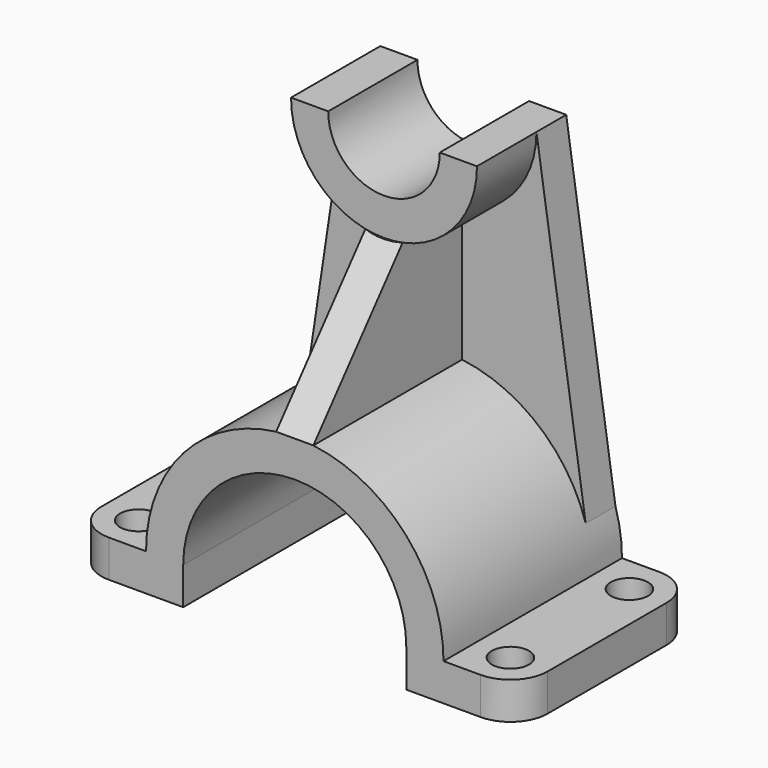
from build123d import *

# Parameters (mm, degrees)
F1_DEPTH  = 60
F3_DEPTH  = 10
F4_DEPTH  = 30
F6_DEPTH  = 50
F8_DEPTH  = 25
F9_R      = 5
F10_DEPTH = 25
F11_R     = 10


with BuildPart() as f1:
    # F0 (on Front) → F1 (new body)
    with BuildSketch(Plane.XZ):
        with BuildLine():
            Line((-34.3805874884, -42.3699883783), (-54.3805874884, -42.3699883783))
            Line((-54.3805874884, -42.3699883783), (-54.3805874884, -52.3699883783))
            Line((-54.3805874884, -52.3699883783), (-24.3805874884, -52.3699883783))
            Line((-24.3805874884, -52.3699883783), (-24.3805874884, -42.3699883783))
            ThreePointArc((-24.3805874884, -42.3699883783), (5.6194125116, -12.3699883783), (35.6194125116, -42.3699883783))
            Line((35.6194125116, -42.3699883783), (35.6194125116, -52.3699883783))
            Line((35.6194125116, -52.3699883783), (65.6194125116, -52.3699883783))
            Line((65.6194125116, -52.3699883783), (65.6194125116, -42.3699883783))
            Line((65.6194125116, -42.3699883783), (45.6194125116, -42.3699883783))
            ThreePointArc((45.6194125116, -42.3699883783), (5.6194125116, -2.3699883783), (-34.3805874884, -42.3699883783))
        make_face()
    extrude(amount=F1_DEPTH)

    # F2 (on face) → F3 (join)
    with BuildSketch(Plane(origin=(0, 0, 0), x_dir=(-1, 0, 0), z_dir=(0, 1, 0))):
        with BuildLine():
            ThreePointArc((19.3804243856, 57.7203172984), (-5.6194125116, 32.6300116217), (-30.6192494088, 57.7203172984))
            Line((-30.6192494088, 57.7203172984), (-43.8620893558, -30.6440484251))
            ThreePointArc((-43.8620893558, -30.6440484251), (-5.6194125116, -2.3699883783), (32.6232643327, -30.6440484251))
            Line((32.6232643327, -30.6440484251), (19.3804243856, 57.7203172984))
        make_face()
    extrude(amount=-F3_DEPTH)

    # F2 (on face) → F4 (join)
    with BuildSketch(Plane(origin=(0, 0, 0), x_dir=(-1, 0, 0), z_dir=(0, 1, 0))):
        with BuildLine():
            ThreePointArc((9.3803156488, 57.7203172984), (-5.6194125116, 42.6300116217), (-20.6191406719, 57.7203172984))
            Line((-20.6191406719, 57.7203172984), (-30.6192494088, 57.7203172984))
            ThreePointArc((-30.6192494088, 57.7203172984), (-5.6194125116, 32.6300116217), (19.3804243856, 57.7203172984))
            Line((19.3804243856, 57.7203172984), (9.3803156488, 57.7203172984))
        make_face()
    extrude(amount=-F4_DEPTH)

    # F5 (on face) → F6 (join, through all)
    with BuildSketch(Plane.XZ.offset(10)):
        with BuildLine():
            ThreePointArc((10.6194125116, 33.1351141939), (5.6194125116, 32.6300116217), (0.6194125116, 33.1351141939))
            Line((0.6194125116, 33.1351141939), (0.6194125116, -2.6837187123))
            ThreePointArc((0.6194125116, -2.6837187123), (5.6194125116, -2.3699883783), (10.6194125116, -2.6837187123))
            Line((10.6194125116, -2.6837187123), (10.6194125116, 33.1351141939))
        make_face()
    extrude(amount=F6_DEPTH)

    # F7 (on face) → F8 (cut)
    with BuildSketch(Plane.YZ.offset(10.6194125116)):
        Polygon((-60, -2.6837187123), (-30, 33.1351141939), (-60, 33.1351141939), align=None)
    extrude(amount=-F8_DEPTH, mode=Mode.SUBTRACT)

    # F9 (on face) → F10 (cut)
    with BuildSketch(Plane.XY.offset(-42.3699883783)):
        with Locations((55.6194125116, -50)):
            Circle(F9_R)
        with Locations((55.6194125116, -10)):
            Circle(F9_R)
        with Locations((-44.3805874884, -50)):
            Circle(F9_R)
        with Locations((-44.3805874884, -10)):
            Circle(F9_R)
    extrude(amount=-F10_DEPTH, mode=Mode.SUBTRACT)

    # F11
    f11_edges = [f1.edges().sort_by_distance(p)[0] for p in [
        (65.619413, -60, -47.369988),
        (65.619413, 0, -47.369988),
        (-54.380587, -60, -47.369988),
        (-54.380587, 0, -47.369988),
    ]]
    fillet(f11_edges, radius=F11_R)


solid = f1.part
